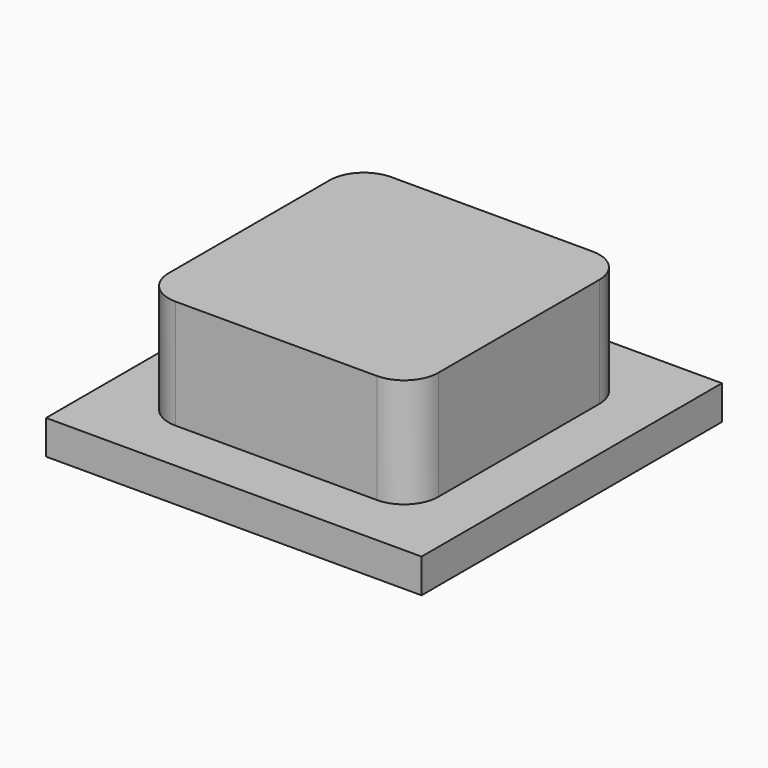
from build123d import *

# Parameters (mm, degrees)
PAD_DEPTH    = 3.2
SKETCH001_W  = 11
SKETCH001_H  = 11
PAD001_DEPTH = 1


with BuildPart() as part:
    # Sketch → Pad (new body)
    with BuildSketch(Plane.XY):
        with BuildLine():
            Line((-1, 0), (-6.9, 0))
            ThreePointArc((-7.9, 1), (-7.607107, 0.292893), (-6.9, 0))
            Line((-7.9, 1), (-7.9, 6.9))
            ThreePointArc((-6.9, 7.9), (-7.607107, 7.607107), (-7.9, 6.9))
            Line((-6.9, 7.9), (-1, 7.9))
            ThreePointArc((0, 6.9), (-0.292893, 7.607107), (-1, 7.9))
            Line((0, 6.9), (0, 1))
            ThreePointArc((-1, 0), (-0.292893, 0.292893), (0, 1))
        make_face()
    extrude(amount=PAD_DEPTH)

    # Sketch001 (on DatumPlane) → Pad001 (join)
    with BuildSketch(Plane(origin=(0, 0, 0), x_dir=(1, 0, 0), z_dir=(0, 0, -1))):
        with Locations((-3.95, -3.95)):
            Rectangle(SKETCH001_W, SKETCH001_H)
    extrude(amount=PAD001_DEPTH)


solid = part.part
